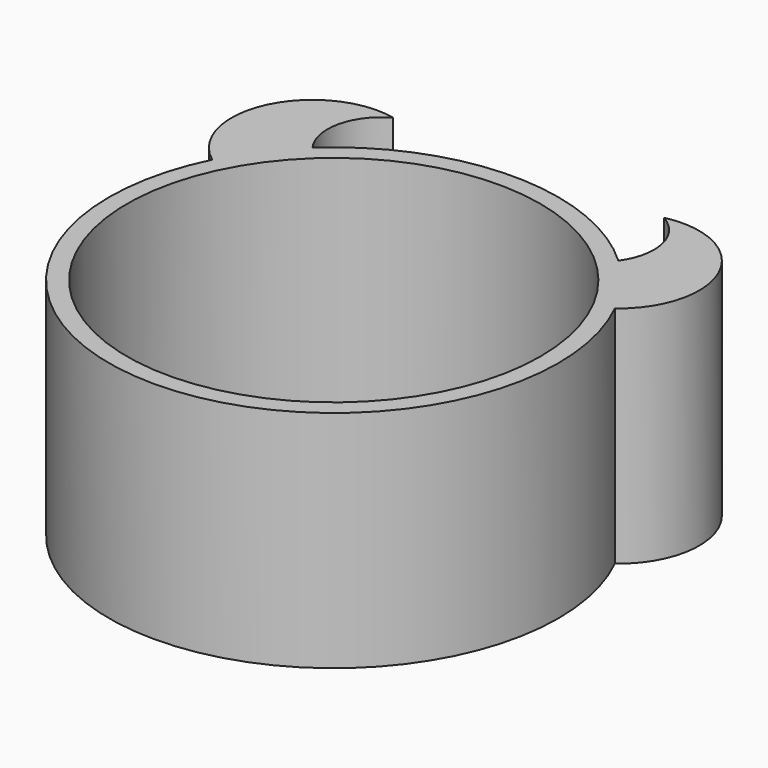
from build123d import *

# Parameters (mm, degrees)
SKETCH_R      = 9.2
EXTRUDE_DEPTH = 10


with BuildPart() as part:
    # Sketch → Extrude (new body)
    with BuildSketch(Plane.XY):
        with BuildLine():
            ThreePointArc((-6.022522, 10.839217), (-10.07862, 8.827673), (-8.96, 4.440541))
            ThreePointArc((-8.96, 4.440541), (0, -10), (8.96, 4.440541))
            ThreePointArc((8.96, 4.440541), (10.07862, 8.827673), (6.022522, 10.839217))
            ThreePointArc((6.806908, 7.325709), (7.207742, 9.259505), (6.022522, 10.839217))
            ThreePointArc((6.806908, 7.325709), (0, 10), (-6.806908, 7.325709))
            ThreePointArc((-6.022522, 10.839217), (-7.207742, 9.259505), (-6.806908, 7.325709))
        make_face()
        Circle(SKETCH_R, mode=Mode.SUBTRACT)
    extrude(amount=EXTRUDE_DEPTH)


solid = part.part
